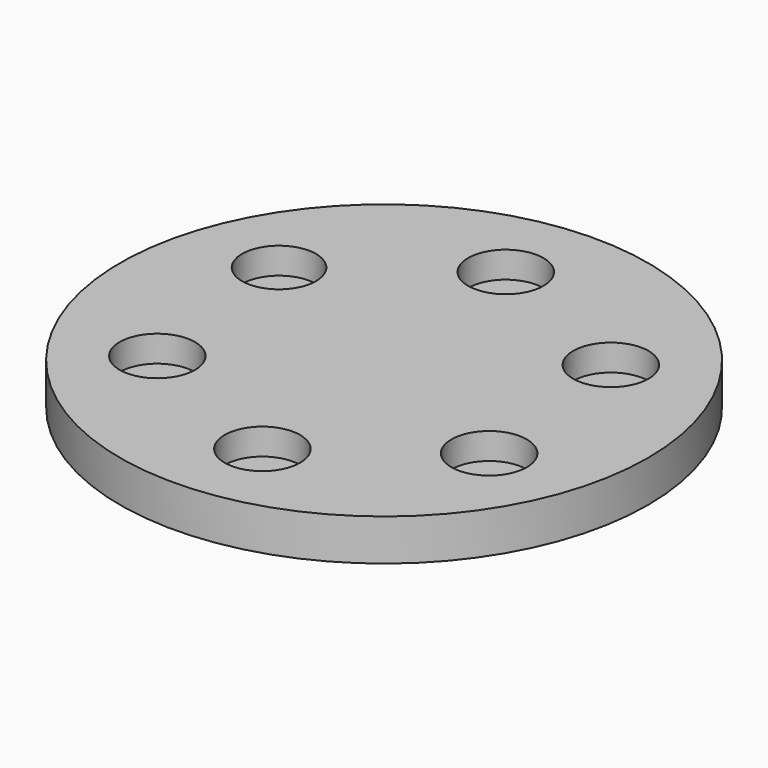
from build123d import *

# Parameters (mm, degrees)
F0_R     = 17.5
F1_DEPTH = 1
F2_R     = 17.5
F2_R_2   = 2.5
F2_R_3   = 2.45
F3_DEPTH = 1.75


with BuildPart() as f1:
    # F0 (on Top) → F1 (new body)
    with BuildSketch(Plane.XY):
        Circle(F0_R)
    extrude(amount=F1_DEPTH)

    # F2 (on face) → F3 (join)
    with BuildSketch(Plane.XY.offset(1)):
        Circle(F2_R)
        with Locations((-9.477707, -6.945183)):
            Circle(F2_R_2, mode=Mode.SUBTRACT)
        with Locations((1.275852, -11.680527)):
            Circle(F2_R_2, mode=Mode.SUBTRACT)
        with Locations((10.753559, -4.735343)):
            Circle(F2_R_2, mode=Mode.SUBTRACT)
        with Locations((-10.753559, 4.735343)):
            Circle(F2_R_3, mode=Mode.SUBTRACT)
        with Locations((-1.275852, 11.680527)):
            Circle(F2_R_2, mode=Mode.SUBTRACT)
        with Locations((9.477707, 6.945183)):
            Circle(F2_R_2, mode=Mode.SUBTRACT)
    extrude(amount=F3_DEPTH)


solid = f1.part
